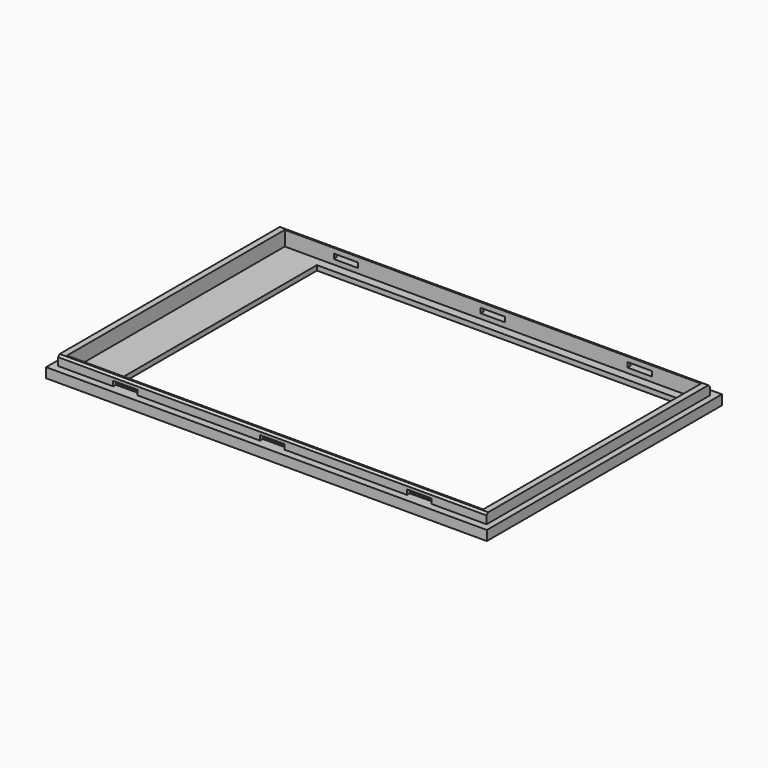
from build123d import *

# Parameters (mm, degrees)
SKETCH_W      = 90
SKETCH_H      = 60
SKETCH_W_2    = 76
SKETCH_H_2    = 52
PAD_DEPTH     = 1
SKETCH001_W   = 90
SKETCH001_H   = 60
SKETCH001_W_2 = 85
SKETCH001_H_2 = 55.6
PAD001_DEPTH  = 1
SKETCH002_W   = 87.5
SKETCH002_H   = 57
SKETCH002_W_2 = 85
SKETCH002_H_2 = 55.6
PAD002_DEPTH  = 2
SKETCH003_W   = 5
SKETCH003_H   = 1
POCKET_DEPTH  = 58.501
CHAMFER_SIZE  = 0.4


with BuildPart() as part:
    # Sketch → Pad (new body)
    with BuildSketch(Plane.XY):
        Rectangle(SKETCH_W, SKETCH_H)
        with Locations((3.5, 0)):
            Rectangle(SKETCH_W_2, SKETCH_H_2, mode=Mode.SUBTRACT)
    extrude(amount=PAD_DEPTH)

    # Sketch001 → Pad001 (new body)
    with BuildSketch(Plane.XY.offset(1)):
        Rectangle(SKETCH001_W, SKETCH001_H)
        Rectangle(SKETCH001_W_2, SKETCH001_H_2, mode=Mode.SUBTRACT)
    extrude(amount=PAD001_DEPTH)

    # Sketch002 → Pad002 (new body)
    with BuildSketch(Plane.XY.offset(2)):
        Rectangle(SKETCH002_W, SKETCH002_H)
        Rectangle(SKETCH002_W_2, SKETCH002_H_2, mode=Mode.SUBTRACT)
    extrude(amount=PAD002_DEPTH)

    # Sketch003 → Pocket (cut, through all)
    with BuildSketch(Plane.XZ.offset(28.5)):
        with Locations((-30, 2.5)):
            Rectangle(SKETCH003_W, SKETCH003_H)
        with Locations((0, 2.5)):
            Rectangle(SKETCH003_W, SKETCH003_H)
        with Locations((30, 2.5)):
            Rectangle(SKETCH003_W, SKETCH003_H)
    extrude(amount=-POCKET_DEPTH, mode=Mode.SUBTRACT)

    # Chamfer
    chamfer_edges = [part.edges().sort_by_distance(p)[0] for p in [
        (0, -28.5, 4),
        (0, 28.5, 4),
    ]]
    chamfer(chamfer_edges, length=CHAMFER_SIZE)


solid = part.part
